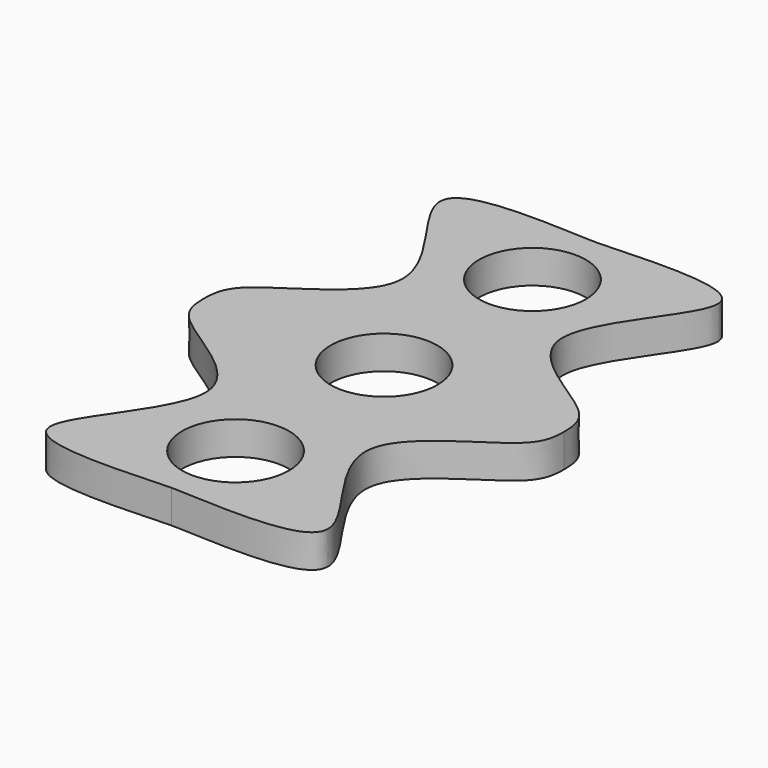
from build123d import *

# Parameters (mm, degrees)
F0_R     = 16.05
F0_R_2   = 8.05
F1_DEPTH = 5
F2_DEPTH = 5


with BuildPart() as f1:
    # F0 (on Top) → F1 (new body)
    with BuildSketch(Plane.XY):
        Circle(F0_R)
        Circle(F0_R_2, mode=Mode.SUBTRACT)
    extrude(amount=F1_DEPTH)

    # F0 (on Top) → F2 (join)
    with BuildSketch(Plane.XY):
        with BuildLine():
            add(Edge.make_bspline(
                [(0, 40), (10.3143678116, 40.4685651622), (30.840334671, 41.4010268668), (2.5494223409, 16.301231422), (26.9827468064, 6.3639706727), (27.1036513336, 1.6566035326), (27.1461997181, 0)],
                knots=[0, 0, 0, 0, 0.2911683192, 0.5794355387, 0.8519961262, 1, 1, 1, 1], degree=3))
            add(Edge.make_bspline(
                [(0, 40), (-10.3143678116, 40.4685651622), (-30.840334671, 41.4010268668), (-2.5494223409, 16.301231422), (-26.9827468064, 6.3639706727), (-27.1036513336, 1.6566035326), (-27.1461997181, 0)],
                knots=[0, 0, 0, 0, 0.2911683192, 0.5794355387, 0.8519961262, 1, 1, 1, 1], degree=3))
            add(Edge.make_bspline(
                [(0, -40), (-10.3143678116, -40.4685651622), (-30.840334671, -41.4010268668), (-2.5494223409, -16.301231422), (-26.9827468064, -6.3639706727), (-27.1036513336, -1.6566035326), (-27.1461997181, 0)],
                knots=[0, 0, 0, 0, 0.2911683192, 0.5794355387, 0.8519961262, 1, 1, 1, 1], degree=3))
            add(Edge.make_bspline(
                [(0, -40), (10.3143678116, -40.4685651622), (30.840334671, -41.4010268668), (2.5494223409, -16.301231422), (26.9827468064, -6.3639706727), (27.1036513336, -1.6566035326), (27.1461997181, 0)],
                knots=[0, 0, 0, 0, 0.2911683192, 0.5794355387, 0.8519961262, 1, 1, 1, 1], degree=3))
        make_face()
        with Locations((0, -27.95)):
            Circle(F0_R_2, mode=Mode.SUBTRACT)
        Circle(F0_R, mode=Mode.SUBTRACT)
        with Locations((0, 27.95)):
            Circle(F0_R_2, mode=Mode.SUBTRACT)
    extrude(amount=F2_DEPTH)


solid = f1.part
